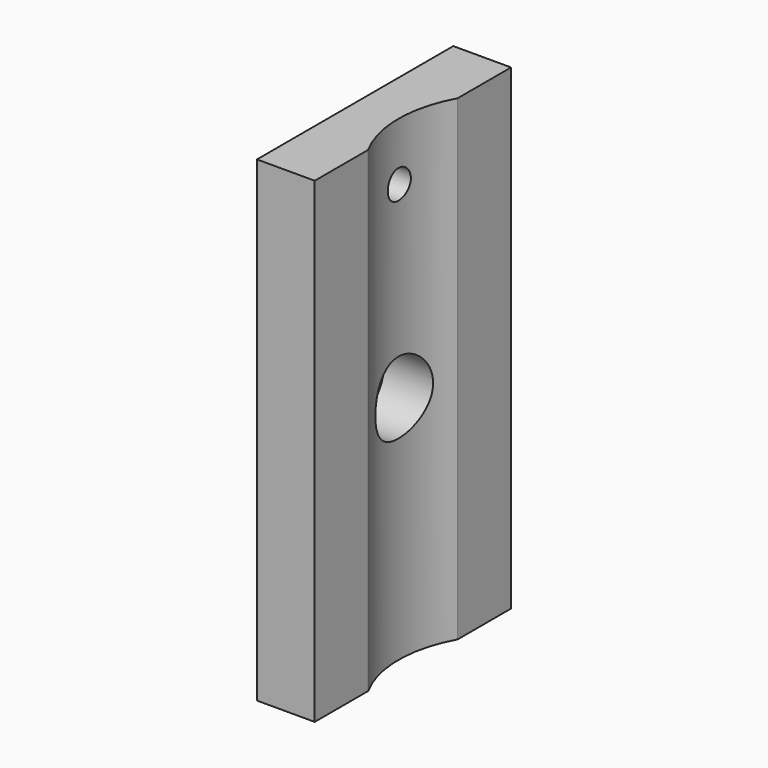
from build123d import *

# Parameters (mm, degrees)
F0_W     = 170
F0_H     = 330
F0_R     = 25
F0_R_2   = 10
F1_DEPTH = 40
F2_D     = 50
F4_DEPTH = 330.001


with BuildPart() as f1:
    # F0 (on Right) → F1 (new body)
    with BuildSketch(Plane.YZ):
        Rectangle(F0_W, F0_H)
        with Locations((0, -5)):
            Circle(F0_R, mode=Mode.SUBTRACT)
        with Locations((0, 125)):
            Circle(F0_R_2, mode=Mode.SUBTRACT)
        with Locations((0, -5)):
            Circle(F0_R)
    extrude(amount=-F1_DEPTH)

    # F2 (through all)
    with Locations(Plane.YZ):
        with Locations((0, -5)):
            Hole(F2_D / 2)

    # F3 (on face) → F4 (cut, through all)
    with BuildSketch(Plane(origin=(0, 0, -165), x_dir=(1, 0, 0), z_dir=(0, 0, -1))):
        with BuildLine():
            Line((0, -38.729833), (0, 38.729833))
            ThreePointArc((0, 38.729833), (-10, 0), (0, -38.729833))
        make_face()
    extrude(amount=-F4_DEPTH, mode=Mode.SUBTRACT)


solid = f1.part
